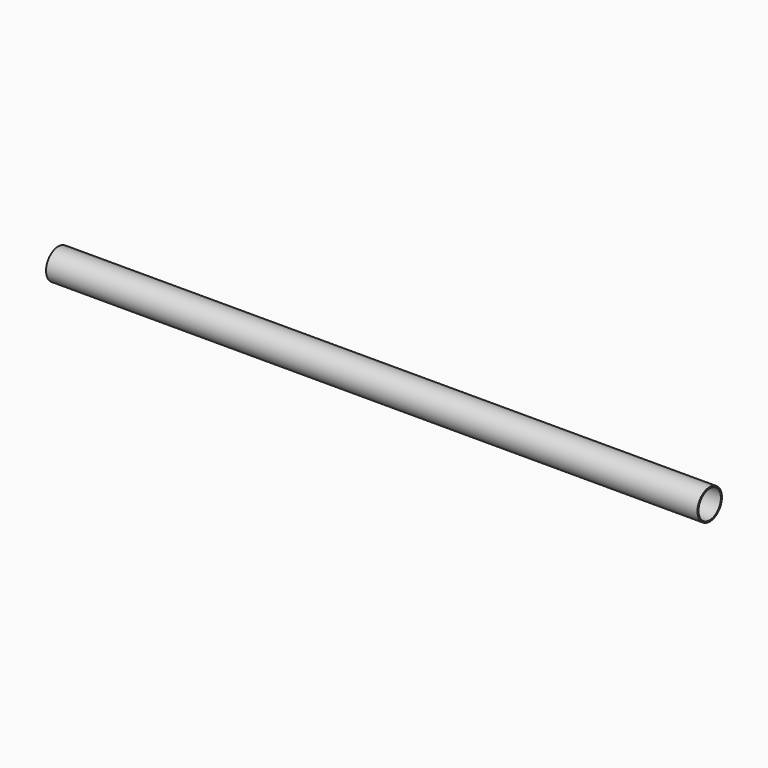
from build123d import *

# Parameters (mm, degrees)
F0_R     = 19.05
F1_DEPTH = 812.8
F2_R     = 17.4625
F3_DEPTH = 69.85
F4_R     = 14.7066
F5_DEPTH = 742.951


with BuildPart() as f1:
    # F0 (on Right) → F1 (new body)
    with BuildSketch(Plane.YZ):
        Circle(F0_R)
    extrude(amount=F1_DEPTH)

    # F2 (on face) → F3 (cut)
    with BuildSketch(Plane.YZ.offset(812.8)):
        Circle(F2_R)
    extrude(amount=-F3_DEPTH, mode=Mode.SUBTRACT)

    # F4 (on face) → F5 (cut, through all)
    with BuildSketch(Plane.YZ.offset(742.95)):
        Circle(F4_R)
    extrude(amount=-F5_DEPTH, mode=Mode.SUBTRACT)


solid = f1.part
